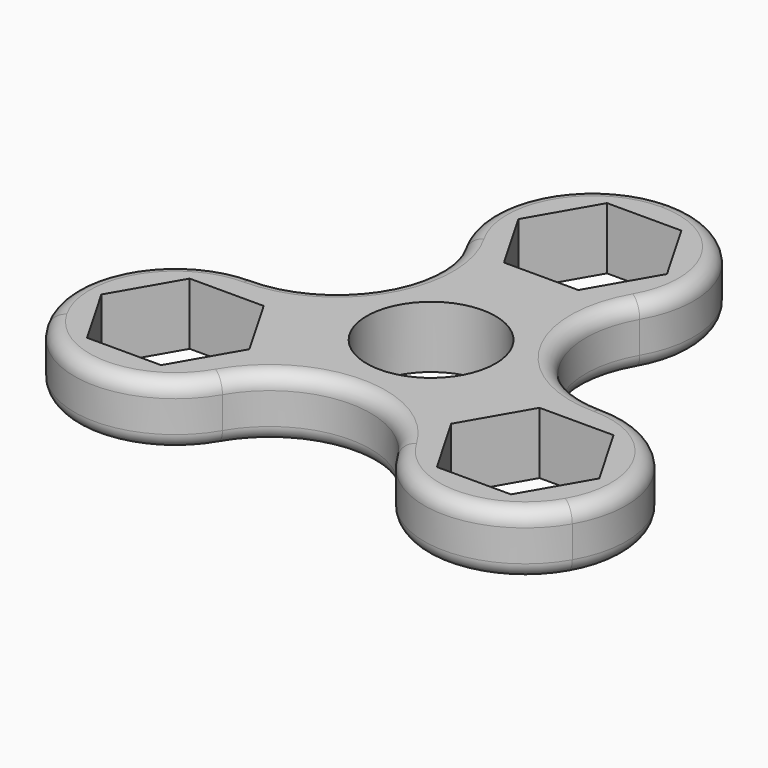
from build123d import *

# Parameters (mm, degrees)
F0_R     = 6.375
F1_DEPTH = 6.125
F2_R     = 1.5


with BuildPart() as f1:
    # F0 (on Top) → F1 (new body)
    with BuildSketch(Plane.XY):
        with BuildLine():
            ThreePointArc((-17.320508, -20), (-25.980762, -25), (-25.980762, -35))
            ThreePointArc((-25.980762, -35), (-17.320508, -40), (-8.660254, -35))
            ThreePointArc((-8.660254, -35), (0, -30), (8.660254, -35))
            ThreePointArc((8.660254, -35), (17.320508, -40), (25.980762, -35))
            ThreePointArc((25.980762, -35), (25.980762, -25), (17.320508, -20))
            ThreePointArc((17.320508, -20), (8.660254, -15), (8.660254, -5))
            ThreePointArc((8.660254, -5), (8.660254, 5), (0, 10))
            ThreePointArc((0, 10), (-8.660254, 5), (-8.660254, -5))
            ThreePointArc((-8.660254, -5), (-8.660254, -15), (-17.320508, -20))
        make_face()
        Polygon((-20.986682, -23.65), (-13.654334, -23.65), (-9.98816, -30), (-13.654334, -36.35), (-20.986682, -36.35), (-22.819769, -33.175), (-24.652856, -30), align=None, mode=Mode.SUBTRACT)
        Polygon((24.652856, -30), (22.819769, -33.175), (20.986682, -36.35), (13.654334, -36.35), (9.98816, -30), (13.654334, -23.65), (20.986682, -23.65), align=None, mode=Mode.SUBTRACT)
        with Locations((0, -20)):
            Circle(F0_R, mode=Mode.SUBTRACT)
        Polygon((-3.680608, 6.375), (0, 6.375), (3.680608, 6.375), (7.361216, 0), (3.680608, -6.375), (-3.680608, -6.375), (-7.361216, 0), align=None, mode=Mode.SUBTRACT)
    extrude(amount=F1_DEPTH)

    # F2
    f2_edges = [f1.edges().sort_by_distance(p)[0] for p in [
        (-8.660254, -15, 6.125),
        (-8.660254, -15, 0),
    ]]
    fillet(f2_edges, radius=F2_R)


solid = f1.part
